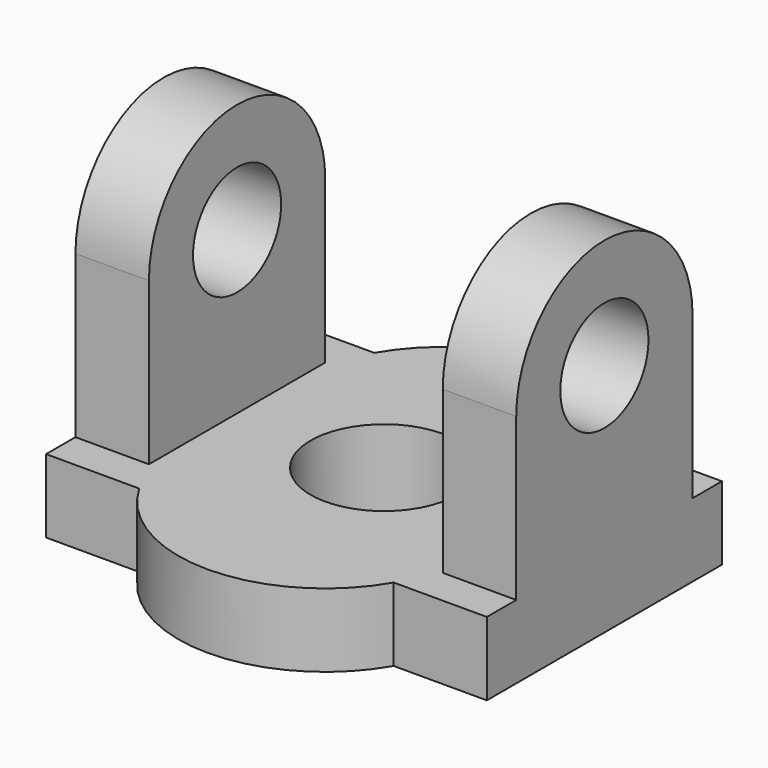
from build123d import *

# Parameters (mm, degrees)
F0_W      = 60
F0_H      = 10
F1_DEPTH  = 40
F2_R      = 7.5
F3_DEPTH  = 10
F4_R      = 7.5
F5_DEPTH  = 10
F6_R      = 17
F7_DEPTH  = 3
F8_R      = 10
F9_DEPTH  = 25
F11_DEPTH = 10


with BuildPart() as f1:
    # F0 (on Front) → F1 (new body)
    with BuildSketch(Plane.XZ):
        with Locations((0, -0.633379)):
            Rectangle(F0_W, F0_H)
    extrude(amount=-F1_DEPTH)

    # F2 (on face) → F3 (join)
    with BuildSketch(Plane.YZ.offset(30)):
        with BuildLine():
            Line((5, 26.366621), (5, 4.366621))
            Line((5, 4.366621), (35, 4.366621))
            Line((35, 4.366621), (35, 26.366621))
            ThreePointArc((35, 26.366621), (20, 41.366621), (5, 26.366621))
        make_face()
        with Locations((20, 26.366621)):
            Circle(F2_R, mode=Mode.SUBTRACT)
    extrude(amount=-F3_DEPTH)

    # F4 (on face) → F5 (join)
    with BuildSketch(Plane(origin=(-30, 0, 0), x_dir=(0, -1, 0), z_dir=(-1, 0, 0))):
        with BuildLine():
            Line((-35, 4.366621), (-5, 4.366621))
            Line((-5, 4.366621), (-5, 26.366621))
            ThreePointArc((-5, 26.366621), (-20, 41.366621), (-35, 26.366621))
            Line((-35, 26.366621), (-35, 4.366621))
        make_face()
        with Locations((-20, 26.366621)):
            Circle(F4_R, mode=Mode.SUBTRACT)
    extrude(amount=-F5_DEPTH)

    # F6 (on face) → F7 (join)
    with BuildSketch(Plane(origin=(0, 0, -5.633379), x_dir=(1, 0, 0), z_dir=(0, 0, -1))):
        with Locations((0, -20)):
            Circle(F6_R)
    extrude(amount=F7_DEPTH)

    # F8 (on face) → F9 (cut)
    with BuildSketch(Plane.XY.offset(4.366621)):
        with Locations((0, 20)):
            Circle(F8_R)
    extrude(amount=-F9_DEPTH, mode=Mode.SUBTRACT)

    # F10 (on face) → F11 (join)
    with BuildSketch(Plane.XY.offset(4.366621)):
        with BuildLine():
            Line((17.320508, 0), (-17.320508, 0))
            ThreePointArc((-17.320508, 0), (0, -10), (17.320508, 0))
        make_face()
        with BuildLine():
            Line((-17.320508, 40), (17.320508, 40))
            ThreePointArc((17.320508, 40), (0, 50), (-17.320508, 40))
        make_face()
    extrude(amount=-F11_DEPTH)


solid = f1.part
